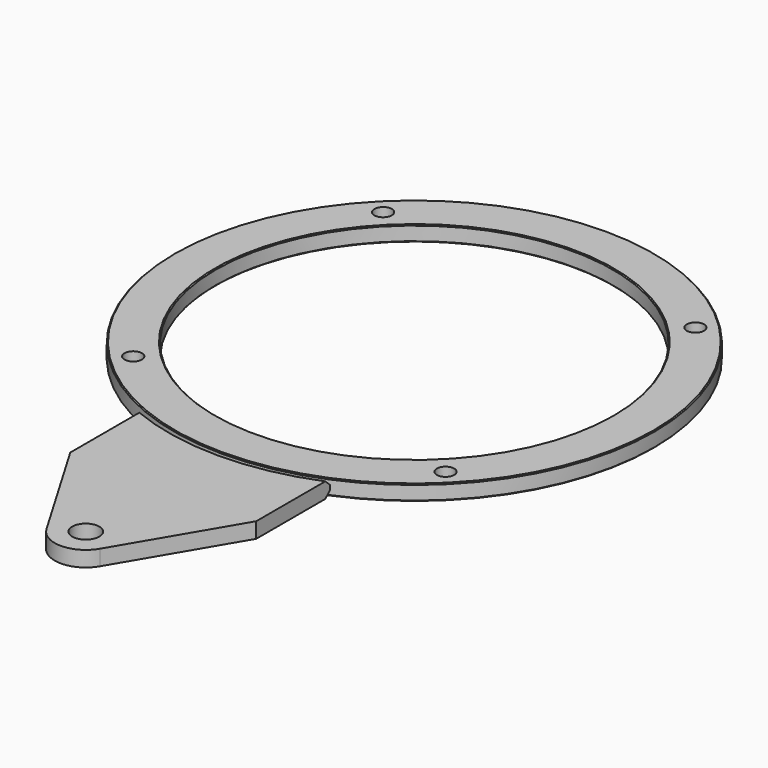
from build123d import *

# Parameters (mm, degrees)
F0_R     = 5.5626
F1_DEPTH = 3.175
F2_R     = 98.425
F2_R_2   = 81.3562
F3_DEPTH = 3.175
F4_SIZE  = 0.381
F5_SIZE  = 2.286
F7_D     = 7.1374


with BuildPart() as f1:
    # F0 (on Top) → F1 (new body, symmetric)
    with BuildSketch(Plane.XY):
        with BuildLine():
            ThreePointArc((38.1, -90.751698), (0, -98.425), (-38.1, -90.751698))
            Line((-38.1, -90.751698), (-38.1, -128.5875))
            Line((-38.1, -128.5875), (-10.944479, -174.7177))
            ThreePointArc((-10.944479, -174.7177), (0, -180.975), (10.944479, -174.7177))
            Line((10.944479, -174.7177), (38.1, -128.5875))
            Line((38.1, -128.5875), (38.1, -90.751698))
        make_face()
        with Locations((0, -168.275)):
            Circle(F0_R, mode=Mode.SUBTRACT)
    extrude(amount=F1_DEPTH, both=True)

    # F5
    f5_edges = [f1.edges().sort_by_distance(p)[0] for p in [
        (0, -98.425, 3.175),
        (0, -98.425, -3.175),
    ]]
    chamfer(f5_edges, length=F5_SIZE)


with BuildPart() as f3:
    # F2 (on Top) → F3 (new body, symmetric)
    with BuildSketch(Plane.XY):
        Circle(F2_R)
        Circle(F2_R_2, mode=Mode.SUBTRACT)
    extrude(amount=F3_DEPTH, both=True)

    # F4
    f4_edges = [f3.edges().sort_by_distance(p)[0] for p in [
        (-98.425, 0, 3.175),
        (-81.3562, 0, 3.175),
        (-81.3562, 0, -3.175),
        (-98.425, 0, -3.175),
    ]]
    chamfer(f4_edges, length=F4_SIZE)

    # F7 (through all)
    with Locations(Plane.XY.offset(3.175)):
        with Locations((-63.984325, -63.984325), (-63.984325, 63.984325), (63.984325, 63.984325), (63.984325, -63.984325)):
            Hole(F7_D / 2)


solid = Compound([f1.part, f3.part])
